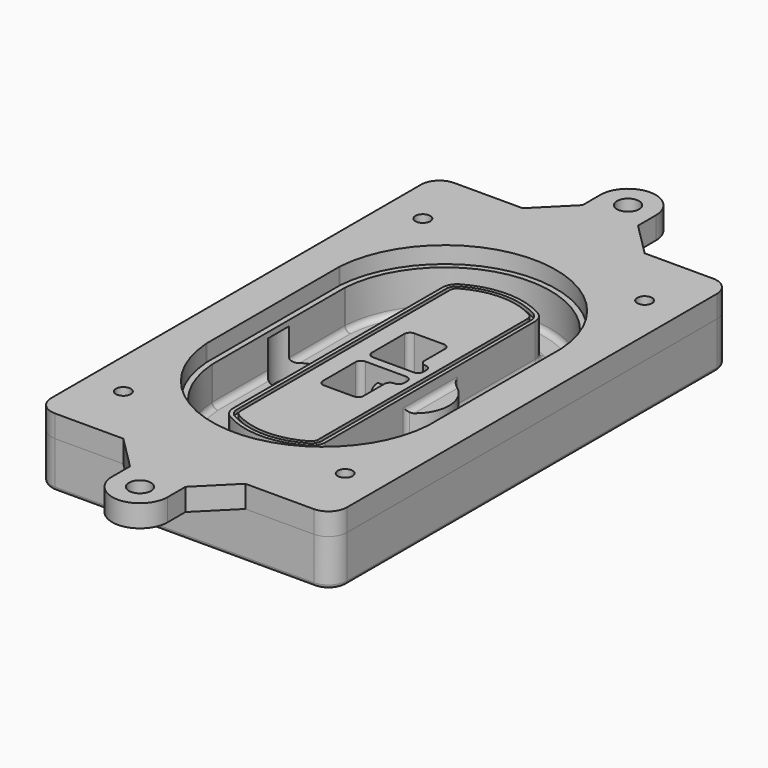
from build123d import *

# Parameters (mm, degrees)
F0_R      = 4
F1_DEPTH  = 25
F2_DEPTH  = 3
F3_DEPTH  = 18
F5_DEPTH  = 21
F6_DEPTH  = 2
F8_DEPTH  = 20
F9_DEPTH  = 16
F10_DEPTH = 25
F7_R      = 6
F7_R_2    = 4
F11_DEPTH = 6
F13_DEPTH = 9
F14_R     = 3
F15_R     = 2
F16_R     = 6
F16_R_2   = 4
F17_DEPTH = 12


with BuildPart() as f1:
    # F0 (on Top) → F1 (new body)
    with BuildSketch(Plane.XY):
        with BuildLine():
            ThreePointArc((-80, -125), (-77.0710678119, -132.0710678119), (-70, -135))
            Line((-70, -135), (70, -135))
            ThreePointArc((70, -135), (77.0710678119, -132.0710678119), (80, -125))
            Line((80, -125), (80, 125))
            ThreePointArc((80, 125), (77.0710678119, 132.0710678119), (70, 135))
            Line((70, 135), (-70, 135))
            ThreePointArc((-70, 135), (-77.0710678119, 132.0710678119), (-80, 125))
            Line((-80, 125), (-80, -125))
        make_face()
        with Locations((-60, -101.25)):
            Circle(F0_R, mode=Mode.SUBTRACT)
        with Locations((60, -101.25)):
            Circle(F0_R, mode=Mode.SUBTRACT)
        with Locations((-60, 101.25)):
            Circle(F0_R, mode=Mode.SUBTRACT)
        with BuildLine():
            ThreePointArc((-64, 44.6627429245), (-63.991269098, 45.1571001106), (-63.9650872818, 45.650840699))
            ThreePointArc((-63.9650872818, 45.650840699), (0, 105.25), (63.9650872818, 45.650840699))
            ThreePointArc((63.9650872818, 45.650840699), (63.991269098, 45.1571001106), (64, 44.6627429245))
            Line((64, 44.6627429245), (64, -44.6627429245))
            ThreePointArc((64, -44.6627429245), (63.991269098, -45.1571001106), (63.9650872818, -45.650840699))
            ThreePointArc((63.9650872818, -45.650840699), (0, -105.25), (-63.9650872818, -45.650840699))
            ThreePointArc((-63.9650872818, -45.650840699), (-63.991269098, -45.1571001106), (-64, -44.6627429245))
            Line((-64, -44.6627429245), (-64, 44.6627429245))
        make_face(mode=Mode.SUBTRACT)
        with Locations((60, 101.25)):
            Circle(F0_R, mode=Mode.SUBTRACT)
        with BuildLine():
            ThreePointArc((63.9650872818, 45.650840699), (0, 105.25), (-63.9650872818, 45.650840699))
            ThreePointArc((-63.9650872818, 45.650840699), (-63.991269098, 45.1571001106), (-64, 44.6627429245))
            Line((-64, 44.6627429245), (-64, -44.6627429245))
            ThreePointArc((-64, -44.6627429245), (-63.991269098, -45.1571001106), (-63.9650872818, -45.650840699))
            ThreePointArc((-63.9650872818, -45.650840699), (0, -105.25), (63.9650872818, -45.650840699))
            ThreePointArc((63.9650872818, -45.650840699), (63.991269098, -45.1571001106), (64, -44.6627429245))
            Line((64, -44.6627429245), (64, 44.6627429245))
            ThreePointArc((64, 44.6627429245), (63.991269098, 45.1571001106), (63.9650872818, 45.650840699))
        make_face()
        with BuildLine():
            Line((-60, -44.6627429245), (-60, 44.6627429245))
            ThreePointArc((-60, 44.6627429245), (-59.9937636414, 45.0158552003), (-59.9750623441, 45.3685270491))
            ThreePointArc((-59.9750623441, 45.3685270491), (0, 101.25), (59.9750623441, 45.3685270491))
            ThreePointArc((59.9750623441, 45.3685270491), (59.9937636414, 45.0158552003), (60, 44.6627429245))
            Line((60, 44.6627429245), (60, -44.6627429245))
            ThreePointArc((60, -44.6627429245), (59.9937636414, -45.0158552003), (59.9750623441, -45.3685270491))
            ThreePointArc((59.9750623441, -45.3685270491), (0, -101.25), (-59.9750623441, -45.3685270491))
            ThreePointArc((-59.9750623441, -45.3685270491), (-59.9937636414, -45.0158552003), (-60, -44.6627429245))
        make_face(mode=Mode.SUBTRACT)
        with BuildLine():
            ThreePointArc((-59.9750623441, 45.3685270491), (-59.9937636414, 45.0158552003), (-60, 44.6627429245))
            Line((-60, 44.6627429245), (-60, -44.6627429245))
            ThreePointArc((-60, -44.6627429245), (-59.9937636414, -45.0158552003), (-59.9750623441, -45.3685270491))
            ThreePointArc((-59.9750623441, -45.3685270491), (0, -101.25), (59.9750623441, -45.3685270491))
            ThreePointArc((59.9750623441, -45.3685270491), (59.9937636414, -45.0158552003), (60, -44.6627429245))
            Line((60, -44.6627429245), (60, 44.6627429245))
            ThreePointArc((60, 44.6627429245), (59.9937636414, 45.0158552003), (59.9750623441, 45.3685270491))
            ThreePointArc((59.9750623441, 45.3685270491), (0, 101.25), (-59.9750623441, 45.3685270491))
        make_face()
        with BuildLine():
            ThreePointArc((56.9825436409, 45.1567918117), (56.995634549, 44.9099215176), (57, 44.6627429245))
            Line((57, 44.6627429245), (57, -44.6627429245))
            ThreePointArc((57, -44.6627429245), (56.995634549, -44.9099215176), (56.9825436409, -45.1567918117))
            ThreePointArc((56.9825436409, -45.1567918117), (0, -98.25), (-56.9825436409, -45.1567918117))
            ThreePointArc((-56.9825436409, -45.1567918117), (-56.995634549, -44.9099215176), (-57, -44.6627429245))
            Line((-57, -44.6627429245), (-57, 44.6627429245))
            ThreePointArc((-57, 44.6627429245), (-56.995634549, 44.9099215176), (-56.9825436409, 45.1567918117))
            ThreePointArc((-56.9825436409, 45.1567918117), (0, 98.25), (56.9825436409, 45.1567918117))
        make_face(mode=Mode.SUBTRACT)
        with BuildLine():
            Line((57, -44.6627429245), (57, 44.6627429245))
            ThreePointArc((57, 44.6627429245), (56.995634549, 44.9099215176), (56.9825436409, 45.1567918117))
            ThreePointArc((56.9825436409, 45.1567918117), (0, 98.25), (-56.9825436409, 45.1567918117))
            ThreePointArc((-56.9825436409, 45.1567918117), (-56.995634549, 44.9099215176), (-57, 44.6627429245))
            Line((-57, 44.6627429245), (-57, -44.6627429245))
            ThreePointArc((-57, -44.6627429245), (-56.995634549, -44.9099215176), (-56.9825436409, -45.1567918117))
            ThreePointArc((-56.9825436409, -45.1567918117), (0, -98.25), (56.9825436409, -45.1567918117))
            ThreePointArc((56.9825436409, -45.1567918117), (56.995634549, -44.9099215176), (57, -44.6627429245))
        make_face()
    extrude(amount=-F1_DEPTH)

    # F0 (on Top) → F2 (join)
    with BuildSketch(Plane.XY):
        with BuildLine():
            ThreePointArc((-59.9750623441, 45.3685270491), (-59.9937636414, 45.0158552003), (-60, 44.6627429245))
            Line((-60, 44.6627429245), (-60, -44.6627429245))
            ThreePointArc((-60, -44.6627429245), (-59.9937636414, -45.0158552003), (-59.9750623441, -45.3685270491))
            ThreePointArc((-59.9750623441, -45.3685270491), (0, -101.25), (59.9750623441, -45.3685270491))
            ThreePointArc((59.9750623441, -45.3685270491), (59.9937636414, -45.0158552003), (60, -44.6627429245))
            Line((60, -44.6627429245), (60, 44.6627429245))
            ThreePointArc((60, 44.6627429245), (59.9937636414, 45.0158552003), (59.9750623441, 45.3685270491))
            ThreePointArc((59.9750623441, 45.3685270491), (0, 101.25), (-59.9750623441, 45.3685270491))
        make_face()
        with BuildLine():
            ThreePointArc((56.9825436409, 45.1567918117), (56.995634549, 44.9099215176), (57, 44.6627429245))
            Line((57, 44.6627429245), (57, -44.6627429245))
            ThreePointArc((57, -44.6627429245), (56.995634549, -44.9099215176), (56.9825436409, -45.1567918117))
            ThreePointArc((56.9825436409, -45.1567918117), (0, -98.25), (-56.9825436409, -45.1567918117))
            ThreePointArc((-56.9825436409, -45.1567918117), (-56.995634549, -44.9099215176), (-57, -44.6627429245))
            Line((-57, -44.6627429245), (-57, 44.6627429245))
            ThreePointArc((-57, 44.6627429245), (-56.995634549, 44.9099215176), (-56.9825436409, 45.1567918117))
            ThreePointArc((-56.9825436409, 45.1567918117), (0, 98.25), (56.9825436409, 45.1567918117))
        make_face(mode=Mode.SUBTRACT)
    extrude(amount=F2_DEPTH)

    # F0 (on Top) → F3 (cut)
    with BuildSketch(Plane.XY):
        with BuildLine():
            Line((57, -44.6627429245), (57, 44.6627429245))
            ThreePointArc((57, 44.6627429245), (56.995634549, 44.9099215176), (56.9825436409, 45.1567918117))
            ThreePointArc((56.9825436409, 45.1567918117), (0, 98.25), (-56.9825436409, 45.1567918117))
            ThreePointArc((-56.9825436409, 45.1567918117), (-56.995634549, 44.9099215176), (-57, 44.6627429245))
            Line((-57, 44.6627429245), (-57, -44.6627429245))
            ThreePointArc((-57, -44.6627429245), (-56.995634549, -44.9099215176), (-56.9825436409, -45.1567918117))
            ThreePointArc((-56.9825436409, -45.1567918117), (0, -98.25), (56.9825436409, -45.1567918117))
            ThreePointArc((56.9825436409, -45.1567918117), (56.995634549, -44.9099215176), (57, -44.6627429245))
        make_face()
    extrude(amount=-F3_DEPTH, mode=Mode.SUBTRACT)

    # F4 (on face) → F5 (join, through all)
    with BuildSketch(Plane.XY.offset(3)):
        with BuildLine():
            ThreePointArc((-25, -70.7141132851), (-23.9239722661, -74.7214325959), (-20.9853479853, -77.6507552274))
            ThreePointArc((-20.9853479853, -77.6507552274), (0, -83.25), (20.9853479853, -77.6507552274))
            ThreePointArc((20.9853479853, -77.6507552274), (23.9239722661, -74.7214325959), (25, -70.7141132851))
            Line((25, -70.7141132851), (25, 70.7141132851))
            ThreePointArc((25, 70.7141132851), (23.9239722661, 74.7214325959), (20.9853479853, 77.6507552274))
            ThreePointArc((20.9853479853, 77.6507552274), (0, 83.25), (-20.9853479853, 77.6507552274))
            ThreePointArc((-20.9853479853, 77.6507552274), (-23.9239722661, 74.7214325959), (-25, 70.7141132851))
            Line((-25, 70.7141132851), (-25, -70.7141132851))
        make_face()
        with BuildLine():
            ThreePointArc((19.989010989, 75.9165947419), (22.1929791996, 73.7196027682), (23, 70.7141132851))
            Line((23, 70.7141132851), (23, -70.7141132851))
            ThreePointArc((23, -70.7141132851), (22.1929791996, -73.7196027682), (19.989010989, -75.9165947419))
            ThreePointArc((19.989010989, -75.9165947419), (0, -81.25), (-19.989010989, -75.9165947419))
            ThreePointArc((-19.989010989, -75.9165947419), (-22.1929791996, -73.7196027682), (-23, -70.7141132851))
            Line((-23, -70.7141132851), (-23, 70.7141132851))
            ThreePointArc((-23, 70.7141132851), (-22.1929791996, 73.7196027682), (-19.989010989, 75.9165947419))
            ThreePointArc((-19.989010989, 75.9165947419), (0, 81.25), (19.989010989, 75.9165947419))
        make_face(mode=Mode.SUBTRACT)
        with BuildLine():
            Line((23, -70.7141132851), (23, 70.7141132851))
            ThreePointArc((23, 70.7141132851), (22.1929791996, 73.7196027682), (19.989010989, 75.9165947419))
            ThreePointArc((19.989010989, 75.9165947419), (0, 81.25), (-19.989010989, 75.9165947419))
            ThreePointArc((-19.989010989, 75.9165947419), (-22.1929791996, 73.7196027682), (-23, 70.7141132851))
            Line((-23, 70.7141132851), (-23, -70.7141132851))
            ThreePointArc((-23, -70.7141132851), (-22.1929791996, -73.7196027682), (-19.989010989, -75.9165947419))
            ThreePointArc((-19.989010989, -75.9165947419), (0, -81.25), (19.989010989, -75.9165947419))
            ThreePointArc((19.989010989, -75.9165947419), (22.1929791996, -73.7196027682), (23, -70.7141132851))
        make_face()
        with BuildLine():
            ThreePointArc((18.9926739927, 74.1824342563), (20.461986133, 72.7177729405), (21, 70.7141132851))
            Line((21, 70.7141132851), (21, -70.7141132851))
            ThreePointArc((21, -70.7141132851), (20.461986133, -72.7177729405), (18.9926739927, -74.1824342563))
            ThreePointArc((18.9926739927, -74.1824342563), (0, -79.25), (-18.9926739927, -74.1824342563))
            ThreePointArc((-18.9926739927, -74.1824342563), (-20.461986133, -72.7177729405), (-21, -70.7141132851))
            Line((-21, -70.7141132851), (-21, 70.7141132851))
            ThreePointArc((-21, 70.7141132851), (-20.461986133, 72.7177729405), (-18.9926739927, 74.1824342563))
            ThreePointArc((-18.9926739927, 74.1824342563), (0, 79.25), (18.9926739927, 74.1824342563))
        make_face(mode=Mode.SUBTRACT)
        with BuildLine():
            Line((21, -70.7141132851), (21, 70.7141132851))
            ThreePointArc((21, 70.7141132851), (20.461986133, 72.7177729405), (18.9926739927, 74.1824342563))
            ThreePointArc((18.9926739927, 74.1824342563), (0, 79.25), (-18.9926739927, 74.1824342563))
            ThreePointArc((-18.9926739927, 74.1824342563), (-20.461986133, 72.7177729405), (-21, 70.7141132851))
            Line((-21, 70.7141132851), (-21, -70.7141132851))
            ThreePointArc((-21, -70.7141132851), (-20.461986133, -72.7177729405), (-18.9926739927, -74.1824342563))
            ThreePointArc((-18.9926739927, -74.1824342563), (0, -79.25), (18.9926739927, -74.1824342563))
            ThreePointArc((18.9926739927, -74.1824342563), (20.461986133, -72.7177729405), (21, -70.7141132851))
        make_face()
        with BuildLine():
            Line((-8, -2.5), (14, -2.5))
            ThreePointArc((14, -2.5), (16.1213203436, -3.3786796564), (17, -5.5))
            Line((17, -5.5), (17, -7.5))
            ThreePointArc((17, -7.5), (16.1213203436, -9.6213203436), (14, -10.5))
            ThreePointArc((14, -10.5), (11.8786796564, -11.3786796564), (11, -13.5))
            Line((11, -13.5), (11, -27.5))
            ThreePointArc((11, -27.5), (10.1213203436, -29.6213203436), (8, -30.5))
            Line((8, -30.5), (-8, -30.5))
            ThreePointArc((-8, -30.5), (-10.1213203436, -29.6213203436), (-11, -27.5))
            Line((-11, -27.5), (-11, -5.5))
            ThreePointArc((-11, -5.5), (-10.1213203436, -3.3786796564), (-8, -2.5))
        make_face(mode=Mode.SUBTRACT)
        with BuildLine():
            ThreePointArc((-8, 2.5), (-10.1213203436, 3.3786796564), (-11, 5.5))
            Line((-11, 5.5), (-11, 27.5))
            ThreePointArc((-11, 27.5), (-10.1213203436, 29.6213203436), (-8, 30.5))
            Line((-8, 30.5), (8, 30.5))
            ThreePointArc((8, 30.5), (10.1213203436, 29.6213203436), (11, 27.5))
            Line((11, 27.5), (11, 13.5))
            ThreePointArc((11, 13.5), (11.8786796564, 11.3786796564), (14, 10.5))
            ThreePointArc((14, 10.5), (16.1213203436, 9.6213203436), (17, 7.5))
            Line((17, 7.5), (17, 5.5))
            ThreePointArc((17, 5.5), (16.1213203436, 3.3786796564), (14, 2.5))
            Line((14, 2.5), (-8, 2.5))
        make_face(mode=Mode.SUBTRACT)
    extrude(amount=-F5_DEPTH)

    # F4 (on face) → F6 (cut)
    with BuildSketch(Plane.XY.offset(3)):
        with BuildLine():
            Line((23, -70.7141132851), (23, 70.7141132851))
            ThreePointArc((23, 70.7141132851), (22.1929791996, 73.7196027682), (19.989010989, 75.9165947419))
            ThreePointArc((19.989010989, 75.9165947419), (0, 81.25), (-19.989010989, 75.9165947419))
            ThreePointArc((-19.989010989, 75.9165947419), (-22.1929791996, 73.7196027682), (-23, 70.7141132851))
            Line((-23, 70.7141132851), (-23, -70.7141132851))
            ThreePointArc((-23, -70.7141132851), (-22.1929791996, -73.7196027682), (-19.989010989, -75.9165947419))
            ThreePointArc((-19.989010989, -75.9165947419), (0, -81.25), (19.989010989, -75.9165947419))
            ThreePointArc((19.989010989, -75.9165947419), (22.1929791996, -73.7196027682), (23, -70.7141132851))
        make_face()
        with BuildLine():
            ThreePointArc((18.9926739927, 74.1824342563), (20.461986133, 72.7177729405), (21, 70.7141132851))
            Line((21, 70.7141132851), (21, -70.7141132851))
            ThreePointArc((21, -70.7141132851), (20.461986133, -72.7177729405), (18.9926739927, -74.1824342563))
            ThreePointArc((18.9926739927, -74.1824342563), (0, -79.25), (-18.9926739927, -74.1824342563))
            ThreePointArc((-18.9926739927, -74.1824342563), (-20.461986133, -72.7177729405), (-21, -70.7141132851))
            Line((-21, -70.7141132851), (-21, 70.7141132851))
            ThreePointArc((-21, 70.7141132851), (-20.461986133, 72.7177729405), (-18.9926739927, 74.1824342563))
            ThreePointArc((-18.9926739927, 74.1824342563), (0, 79.25), (18.9926739927, 74.1824342563))
        make_face(mode=Mode.SUBTRACT)
    extrude(amount=-F6_DEPTH, mode=Mode.SUBTRACT)

    # F7 (on face) → F8 (join)
    with BuildSketch(Plane(origin=(0, 0, -25), x_dir=(1, 0, 0), z_dir=(0, 0, -1))):
        with BuildLine():
            ThreePointArc((3.28842436, 0), (16.7567035675, 13.4682792075), (30.224982775, 0))
            Line((30.224982775, 0), (35.224982775, 0))
            ThreePointArc((35.224982775, 0), (16.7567035675, 18.4682792075), (-1.71157564, 0))
            Line((-1.71157564, 0), (3.28842436, 0))
        make_face()
        with BuildLine():
            Line((3.28842436, 0), (30.224982775, 0))
            ThreePointArc((30.224982775, 0), (16.7567035675, 13.4682792075), (3.28842436, 0))
        make_face()
        with BuildLine():
            ThreePointArc((3.28842436, 0), (16.7567035675, -13.4682792075), (30.224982775, 0))
            Line((30.224982775, 0), (3.28842436, 0))
        make_face()
        with BuildLine():
            Line((35.224982775, 0), (30.224982775, 0))
            ThreePointArc((30.224982775, 0), (16.7567035675, -13.4682792075), (3.28842436, 0))
            Line((3.28842436, 0), (-1.71157564, 0))
            ThreePointArc((-1.71157564, 0), (16.7567035675, -18.4682792075), (35.224982775, 0))
        make_face()
    extrude(amount=-F8_DEPTH)

    # F7 (on face) → F9 (cut)
    with BuildSketch(Plane(origin=(0, 0, -25), x_dir=(1, 0, 0), z_dir=(0, 0, -1))):
        with BuildLine():
            Line((3.28842436, 0), (30.224982775, 0))
            ThreePointArc((30.224982775, 0), (16.7567035675, 13.4682792075), (3.28842436, 0))
        make_face()
        with BuildLine():
            ThreePointArc((3.28842436, 0), (16.7567035675, -13.4682792075), (30.224982775, 0))
            Line((30.224982775, 0), (3.28842436, 0))
        make_face()
    extrude(amount=-F9_DEPTH, mode=Mode.SUBTRACT)

    # F7 (on face) → F10 (cut)
    with BuildSketch(Plane(origin=(0, 0, -25), x_dir=(1, 0, 0), z_dir=(0, 0, -1))):
        with BuildLine():
            Line((-59.0318229325, 0), (-32.0952645175, 0))
            ThreePointArc((-32.0952645175, 0), (-45.563543725, 13.4682792075), (-59.0318229325, 0))
        make_face()
        with BuildLine():
            ThreePointArc((-59.0318229325, 0), (-45.563543725, -13.4682792075), (-32.0952645175, 0))
            Line((-32.0952645175, 0), (-59.0318229325, 0))
        make_face()
    extrude(amount=-F10_DEPTH, mode=Mode.SUBTRACT)

    # F7 (on face) → F11 (cut)
    with BuildSketch(Plane(origin=(0, 0, -25), x_dir=(1, 0, 0), z_dir=(0, 0, -1))):
        with Locations((60, -101.25)):
            Circle(F7_R)
        with Locations((60, -101.25)):
            Circle(F7_R_2, mode=Mode.SUBTRACT)
        with Locations((60, -101.25)):
            Circle(F7_R)
        with Locations((60, -101.25)):
            Circle(F7_R_2, mode=Mode.SUBTRACT)
        with Locations((-60, -101.25)):
            Circle(F7_R)
        with Locations((-60, -101.25)):
            Circle(F7_R_2, mode=Mode.SUBTRACT)
        with Locations((-60, -101.25)):
            Circle(F7_R)
        with Locations((-60, -101.25)):
            Circle(F7_R_2, mode=Mode.SUBTRACT)
        with Locations((-60, 101.25)):
            Circle(F7_R)
        with Locations((-60, 101.25)):
            Circle(F7_R_2, mode=Mode.SUBTRACT)
        with Locations((-60, 101.25)):
            Circle(F7_R)
        with Locations((-60, 101.25)):
            Circle(F7_R_2, mode=Mode.SUBTRACT)
        with Locations((60, 101.25)):
            Circle(F7_R)
        with Locations((60, 101.25)):
            Circle(F7_R_2, mode=Mode.SUBTRACT)
        with Locations((60, 101.25)):
            Circle(F7_R)
        with Locations((60, 101.25)):
            Circle(F7_R_2, mode=Mode.SUBTRACT)
    extrude(amount=-F11_DEPTH, mode=Mode.SUBTRACT)

    # F12 (on face) → F13 (cut, through all)
    with BuildSketch(Plane(origin=(0, 0, -9), x_dir=(1, 0, 0), z_dir=(0, 0, -1))):
        with BuildLine():
            Line((11, 13.5), (11, 17.5481537753))
            ThreePointArc((11, 17.5481537753), (2.5696536419, 11.8239143813), (-1.5415842455, 2.5))
            Line((-1.5415842455, 2.5), (3.5224848595, 2.5))
            ThreePointArc((3.5224848595, 2.5), (6.1857188154, 8.3455872281), (11.2536447004, 12.2927168648))
            ThreePointArc((11.2536447004, 12.2927168648), (11.0640958889, 12.8831798879), (11, 13.5))
        make_face()
        with BuildLine():
            ThreePointArc((11.2536447004, -12.2927168648), (6.1857188154, -8.3455872281), (3.5224848595, -2.5))
            Line((3.5224848595, -2.5), (-1.5415842455, -2.5))
            ThreePointArc((-1.5415842455, -2.5), (2.5696536419, -11.8239143813), (11, -17.5481537753))
            Line((11, -17.5481537753), (11, -13.5))
            ThreePointArc((11, -13.5), (11.0640958889, -12.8831798879), (11.2536447004, -12.2927168648))
        make_face()
        with BuildLine():
            ThreePointArc((11.2536447004, 12.2927168648), (6.1857188154, 8.3455872281), (3.5224848595, 2.5))
            Line((3.5224848595, 2.5), (14, 2.5))
            ThreePointArc((14, 2.5), (16.1213203436, 3.3786796564), (17, 5.5))
            Line((17, 5.5), (17, 7.5))
            ThreePointArc((17, 7.5), (16.1213203436, 9.6213203436), (14, 10.5))
            ThreePointArc((14, 10.5), (12.3601599782, 10.9878446101), (11.2536447004, 12.2927168648))
        make_face()
        with BuildLine():
            Line((14, -2.5), (3.5224848595, -2.5))
            ThreePointArc((3.5224848595, -2.5), (6.1857188154, -8.3455872281), (11.2536447004, -12.2927168648))
            ThreePointArc((11.2536447004, -12.2927168648), (12.3601599782, -10.9878446101), (14, -10.5))
            ThreePointArc((14, -10.5), (16.1213203436, -9.6213203436), (17, -7.5))
            Line((17, -7.5), (17, -5.5))
            ThreePointArc((17, -5.5), (16.1213203436, -3.3786796564), (14, -2.5))
        make_face()
    extrude(amount=F13_DEPTH, mode=Mode.SUBTRACT)

    # F14
    f14_edges = [f1.edges().sort_by_distance(p)[0] for p in [
        (-57, -25.888126, -18),
        (-57, 25.888126, -18),
        (25, 0, -5),
        (25, 16.526506, -11.5),
        (25, -16.526506, -11.5),
        (25, -43.62031, -18),
        (35.224983, 0, -18),
    ]]
    fillet(f14_edges, radius=F14_R)

    # F15
    f15_edges = [f1.edges().sort_by_distance(p)[0] for p in [
        (0, -135, -25),
    ]]
    fillet(f15_edges, radius=F15_R)


with BuildPart() as f17:
    # F16 (on face) → F17 (new body)
    with BuildSketch(Plane.XY):
        with BuildLine():
            Line((15, 153), (15, 165))
            ThreePointArc((15, 165), (0, 180), (-15, 165))
            Line((-15, 165), (-15, 153))
            Line((-15, 153), (-33, 135))
            Line((-33, 135), (33, 135))
            Line((33, 135), (15, 153))
        make_face()
        with Locations((0, 165)):
            Circle(F16_R, mode=Mode.SUBTRACT)
        with BuildLine():
            Line((15, -153), (33, -135))
            Line((33, -135), (-33, -135))
            Line((-33, -135), (-15, -153))
            Line((-15, -153), (-15, -165))
            ThreePointArc((-15, -165), (0, -180), (15, -165))
            Line((15, -165), (15, -153))
        make_face()
        with Locations((0, -165)):
            Circle(F16_R, mode=Mode.SUBTRACT)
        with BuildLine():
            Line((70, 135), (33, 135))
            Line((33, 135), (-33, 135))
            Line((-33, 135), (-70, 135))
            ThreePointArc((-70, 135), (-77.0710678119, 132.0710678119), (-80, 125))
            Line((-80, 125), (-80, -125))
            ThreePointArc((-80, -125), (-77.0710678119, -132.0710678119), (-70, -135))
            Line((-70, -135), (-33, -135))
            Line((-33, -135), (33, -135))
            Line((33, -135), (70, -135))
            ThreePointArc((70, -135), (77.0710678119, -132.0710678119), (80, -125))
            Line((80, -125), (80, 125))
            ThreePointArc((80, 125), (77.0710678119, 132.0710678119), (70, 135))
        make_face()
        with Locations((-60, -101.25)):
            Circle(F16_R_2, mode=Mode.SUBTRACT)
        with Locations((60, -101.25)):
            Circle(F16_R_2, mode=Mode.SUBTRACT)
        with Locations((-60, 101.25)):
            Circle(F16_R_2, mode=Mode.SUBTRACT)
        with BuildLine():
            ThreePointArc((-60, 44.6627429245), (-59.9937636414, 45.0158552003), (-59.9750623441, 45.3685270491))
            ThreePointArc((-59.9750623441, 45.3685270491), (0, 101.25), (59.9750623441, 45.3685270491))
            ThreePointArc((59.9750623441, 45.3685270491), (59.9937636414, 45.0158552003), (60, 44.6627429245))
            Line((60, 44.6627429245), (60, -44.6627429245))
            ThreePointArc((60, -44.6627429245), (59.9937636414, -45.0158552003), (59.9750623441, -45.3685270491))
            ThreePointArc((59.9750623441, -45.3685270491), (0, -101.25), (-59.9750623441, -45.3685270491))
            ThreePointArc((-59.9750623441, -45.3685270491), (-59.9937636414, -45.0158552003), (-60, -44.6627429245))
            Line((-60, -44.6627429245), (-60, 44.6627429245))
        make_face(mode=Mode.SUBTRACT)
        with Locations((60, 101.25)):
            Circle(F16_R_2, mode=Mode.SUBTRACT)
    extrude(amount=F17_DEPTH)


solid = Compound([f1.part, f17.part])
